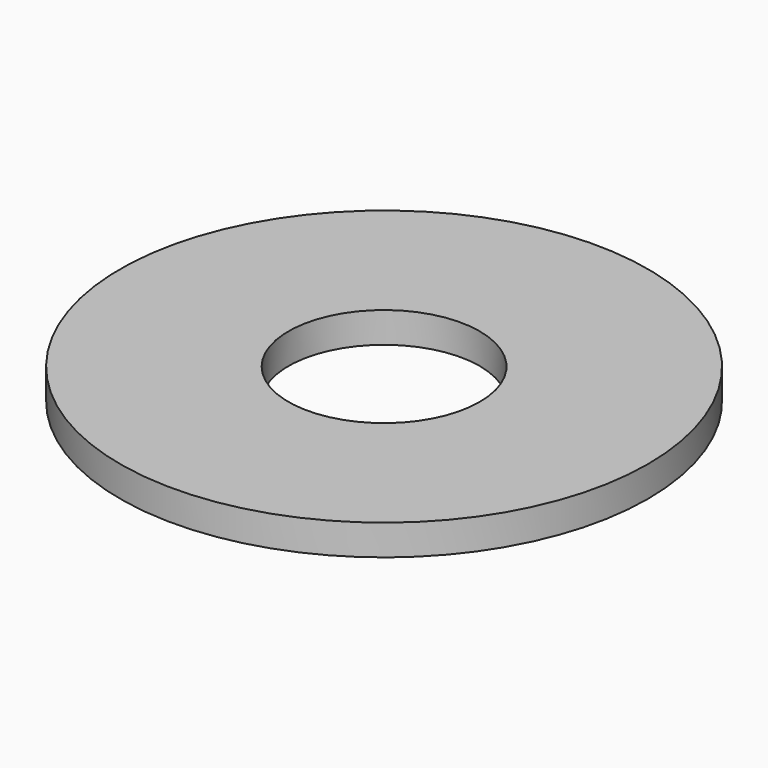
from build123d import *

# Parameters (mm, degrees)
F0_R     = 43.815
F1_DEPTH = 5.08
F2_R     = 15.875
F3_DEPTH = 5.081


with BuildPart() as f1:
    # F0 (on Top) → F1 (new body)
    with BuildSketch(Plane.XY):
        Circle(F0_R)
    extrude(amount=F1_DEPTH)

    # F2 (on Top) → F3 (cut, through all)
    with BuildSketch(Plane.XY):
        Circle(F2_R)
    extrude(amount=F3_DEPTH, mode=Mode.SUBTRACT)


solid = f1.part
